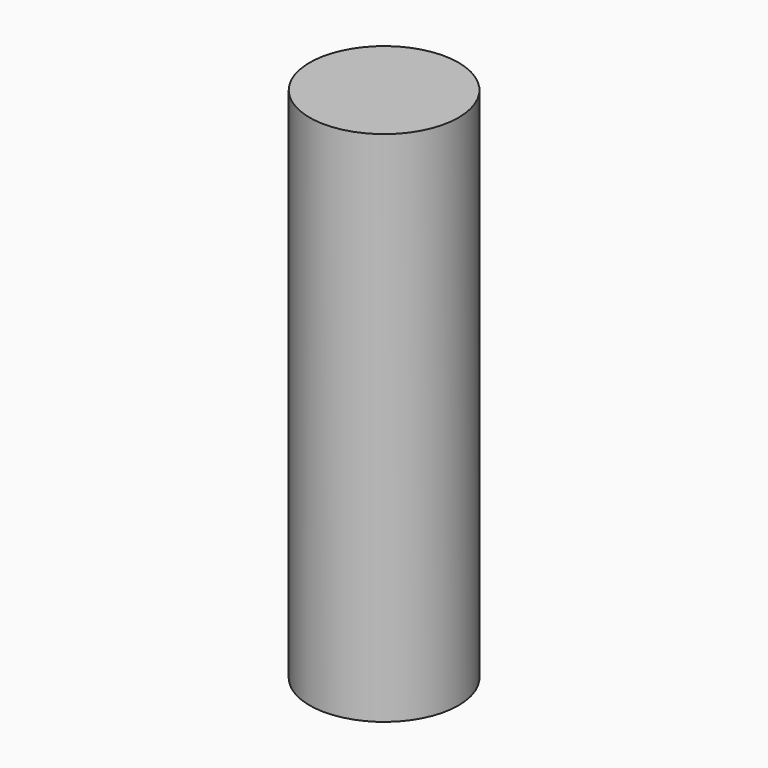
from build123d import *

# Parameters (mm, degrees)
CYLINDER_R     = 2.159
CYLINDER_DEPTH = 15


with BuildPart() as part:
    # Cylinder → Cylinder (new body)
    with BuildSketch(Plane.XY.offset(-2.5)):
        Circle(CYLINDER_R)
    extrude(amount=CYLINDER_DEPTH)


solid = part.part
